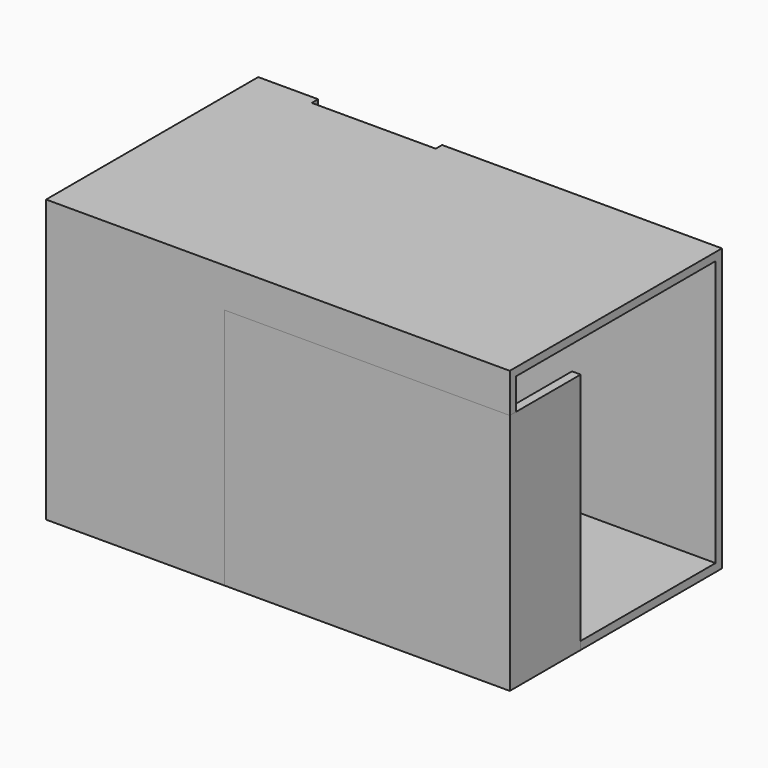
from build123d import *

# Parameters (mm, degrees)
F0_W      = 3480
F0_H      = 1990
F1_DEPTH  = 2115
F4_T      = -60
F3_W      = 930
F3_H      = 2115
F5_DEPTH  = 60
F6_W      = 2200
F6_H      = 1400
F7_DEPTH  = 150
F10_DEPTH = 2200
F11_DEPTH = 2170
F12_DEPTH = 30
F14_R     = 25
F15_DEPTH = 100
F18_DEPTH = 2200
F17_W     = 100
F17_H     = 395
F19_DEPTH = 2200
F20_DEPTH = 2100
F21_DEPTH = 100
F22_T     = -10
F22_2_T   = -10
F23_W     = 390
F23_H     = 450
F24_DEPTH = 2000
F25_T     = -20
F27_DEPTH = 1820


with BuildPart() as f1:
    # F0 (on Top) → F1 (new body)
    with BuildSketch(Plane.XY):
        Rectangle(F0_W, F0_H)
    extrude(amount=F1_DEPTH)

    # F4
    f4_openings = [f1.faces().sort_by_distance(p)[0] for p in [
        (1740, 0, 1057.5),
    ]]
    offset(amount=F4_T, openings=f4_openings)

    # F3 (on offset) → F5 (cut)
    with BuildSketch(Plane(origin=(0, 995, 0), x_dir=(-1, 0, 0), z_dir=(0, 1, 0))):
        with Locations((825, 1057.5)):
            Rectangle(F3_W, F3_H)
    extrude(amount=-F5_DEPTH, mode=Mode.SUBTRACT)


with BuildPart() as f7:
    # F6 (on Top) → F7 (new body)
    with BuildSketch(Plane.XY):
        with Locations((-1009.0253487229, 705.2677765489)):
            Rectangle(F6_W, F6_H)
    extrude(amount=F7_DEPTH)


with BuildPart() as f10:
    # F9 (on offset) → F10 (new body)
    with BuildSketch(Plane(origin=(-2109.0253487229, 0, 0), x_dir=(0, -1, 0), z_dir=(-1, 0, 0))):
        Polygon((-1405.2677765489, -160), (-1405.2677765489, 75), (-1435.2677765489, 75), (-1435.2677765489, -425), (0, -425), (0, -395), (-1170.2677765489, -395), (-1405.2677765489, -395), align=None)
        Polygon((-1170.2677765489, -395), (-1405.2677765489, -160), (-1405.2677765489, -395), align=None)
    extrude(amount=-F10_DEPTH)

    # F9 (on offset) → F11 (cut)
    with BuildSketch(Plane(origin=(-2109.0253487229, 0, 0), x_dir=(0, -1, 0), z_dir=(-1, 0, 0))):
        Polygon((-1170.2677765489, -395), (-1405.2677765489, -160), (-1405.2677765489, -395), align=None)
    extrude(amount=-F11_DEPTH, mode=Mode.SUBTRACT)

    # F9 (on offset) → F12 (join)
    with BuildSketch(Plane(origin=(-2109.0253487229, 0, 0), x_dir=(0, -1, 0), z_dir=(-1, 0, 0))):
        Polygon((-1170.2677765489, -395), (-1405.2677765489, -160), (-1405.2677765489, -395), align=None)
    extrude(amount=-F12_DEPTH)

    # F14 (on offset) → F15 (join)
    with BuildSketch(Plane(origin=(0, 1435.2677765489, 0), x_dir=(-1, 0, 0), z_dir=(0, 1, 0))):
        with Locations((409.0253487229, 25)):
            Circle(F14_R)
        with Locations((1709.0253487229, 25)):
            Circle(F14_R)
        with Locations((1009.0253487229, 25)):
            Circle(F14_R)
        with Locations((409.0253487229, -375)):
            Circle(F14_R)
        with Locations((1009.0253487229, -375)):
            Circle(F14_R)
        with Locations((1709.0253487229, -375)):
            Circle(F14_R)
    extrude(amount=F15_DEPTH)


with BuildPart() as f18:
    # F17 (on offset) → F18 (new body)
    with BuildSketch(Plane(origin=(-2109.0253487229, 0, 0), x_dir=(0, -1, 0), z_dir=(-1, 0, 0))):
        Polygon((-1065.2677765489, 0), (-1095.2677765489, 0), (-1095.2677765489, -395), (-615.2677765489, -395), (-615.2677765489, -365), (-1065.2677765489, -365), align=None)
        with BuildLine():
            add(Edge.make_bspline(
                [(-1048.9412833992, -349.1059595814), (-1019.3944963274, -288.8335720097), (-1026.1483760671, -144.4167860049), (-1032.9022558067, 0), (-1065.2677765489, 0)],
                knots=[3.5620328245, 3.5620328245, 3.5620328245, 4.9226090658, 4.9226090658, 6.2831853072, 6.2831853072, 6.2831853072], degree=2, weights=[1, 0.7773915182, 1, 0.7773915182, 1]))
            Line((-1065.2677765489, 0), (-1065.2677765489, -365))
            Line((-1065.2677765489, -365), (-1048.9412833992, -349.1059595814))
        make_face()
        with BuildLine():
            Line((-1048.9412833992, -349.1059595814), (-1065.2677765489, -365))
            Line((-1065.2677765489, -365), (-615.2677765489, -365))
            add(Edge.make_bspline(
                [(-615.2677765489, -365), (-615.2677765489, -329.9535942352), (-797.4106828613, -323.278096034), (-979.5535891738, -316.6025978327), (-1048.9412833992, -349.1059595814)],
                knots=[0, 0, 0, 1.3791493544, 1.3791493544, 2.7582987089, 2.7582987089, 2.7582987089], degree=2, weights=[1, 0.771516679, 1, 0.771516679, 1]))
        make_face()
    extrude(amount=-F18_DEPTH)


with BuildPart() as f19:
    # F17 (on offset) → F19 (new body)
    with BuildSketch(Plane(origin=(-2109.0253487229, 0, 0), x_dir=(0, -1, 0), z_dir=(-1, 0, 0))):
        with Locations((-55.2677765489, -197.5)):
            Rectangle(F17_W, F17_H)
    extrude(amount=-F19_DEPTH)

    # F17 (on offset) → F20 (cut)
    with BuildSketch(Plane(origin=(-2109.0253487229, 0, 0), x_dir=(0, -1, 0), z_dir=(-1, 0, 0))):
        with Locations((-55.2677765489, -197.5)):
            Rectangle(F17_W, F17_H)
    extrude(amount=-F20_DEPTH, mode=Mode.SUBTRACT)

    # F22
    f22_openings = [f19.faces().sort_by_distance(p)[0] for p in [
        (40.974651, 5.267777, -197.5),
    ]]
    offset(amount=F22_T, openings=f22_openings)


with BuildPart() as f21:
    # F17 (on offset) → F21 (new body)
    with BuildSketch(Plane(origin=(-2109.0253487229, 0, 0), x_dir=(0, -1, 0), z_dir=(-1, 0, 0))):
        with Locations((-55.2677765489, -197.5)):
            Rectangle(F17_W, F17_H)
    extrude(amount=-F21_DEPTH)

    # F22#2
    f22_2_openings = [f21.faces().sort_by_distance(p)[0] for p in [
        (-2059.025349, 5.267777, -197.5),
    ]]
    offset(amount=F22_2_T, openings=f22_2_openings)


with BuildPart() as f24:
    # F23 (on Top) → F24 (new body)
    with BuildSketch(Plane.XY):
        with Locations((-1485, 710)):
            Rectangle(F23_W, F23_H)
    extrude(amount=F24_DEPTH)

    # F25
    f25_openings = [f24.faces().sort_by_distance(p)[0] for p in [
        (-1290, 710, 1000),
    ]]
    offset(amount=F25_T, openings=f25_openings)


with BuildPart() as f27:
    # F26 (on Top) → F27 (new body)
    with BuildSketch(Plane.XY):
        Polygon((-400, -995), (525, -995), (1740, -995), (1740, -330), (1675, -330), (1675, -930), (765, -930), (525, -930), (-400, -930), align=None)
    extrude(amount=F27_DEPTH)


solid = Compound([f1.part, f7.part, f10.part, f18.part, f19.part, f21.part, f24.part, f27.part])
